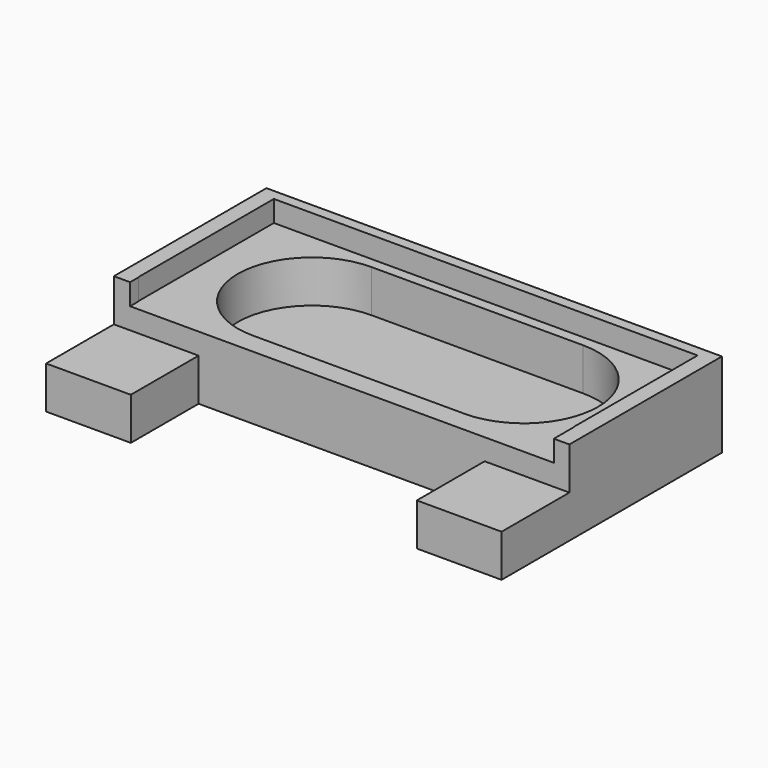
from build123d import *

# Parameters (mm, degrees)
SKETCH_W        = 215
SKETCH_H        = 90
PAD_DEPTH       = 40
SKETCH001_W     = 200
SKETCH001_H     = 80
POCKET_DEPTH    = 10
SKETCH002_W     = 200
SKETCH002_H     = 13.845135
POCKET001_DEPTH = 10
POCKET002_DEPTH = 20
SKETCH004_W     = 40
SKETCH004_H     = 20
PAD001_DEPTH    = 40


with BuildPart() as part:
    # Sketch → Pad (new body)
    with BuildSketch(Plane.XY):
        Rectangle(SKETCH_W, SKETCH_H)
    extrude(amount=PAD_DEPTH)

    # Sketch001 (on Face6 of Pad) → Pocket (cut)
    with BuildSketch(Plane.XY.offset(40)):
        Rectangle(SKETCH001_W, SKETCH001_H)
    extrude(amount=-POCKET_DEPTH, mode=Mode.SUBTRACT)

    # Sketch002 (on Face5 of Pocket) → Pocket001 (cut)
    with BuildSketch(Plane.XY.offset(40)):
        with Locations((0.151818, -40.134584)):
            Rectangle(SKETCH002_W, SKETCH002_H)
    extrude(amount=-POCKET001_DEPTH, mode=Mode.SUBTRACT)

    # Sketch003 (on Face14 of Pocket001) → Pocket002 (cut)
    with BuildSketch(Plane.XY.offset(30)):
        with BuildLine():
            ThreePointArc((-50, 35), (-85, 0), (-50, -35))
            Line((-50, -35), (50, -35))
            ThreePointArc((50, -35), (85, 0), (50, 35))
            Line((50, 35), (-50, 35))
        make_face()
    extrude(amount=-POCKET002_DEPTH, mode=Mode.SUBTRACT)

    # Sketch004 (on Face6 of Pocket002) → Pad001 (join)
    with BuildSketch(Plane.XZ.offset(45)):
        with Locations((-87.5, 10)):
            Rectangle(SKETCH004_W, SKETCH004_H)
        with Locations((87.5, 10)):
            Rectangle(SKETCH004_W, SKETCH004_H)
    extrude(amount=PAD001_DEPTH)


solid = part.part
